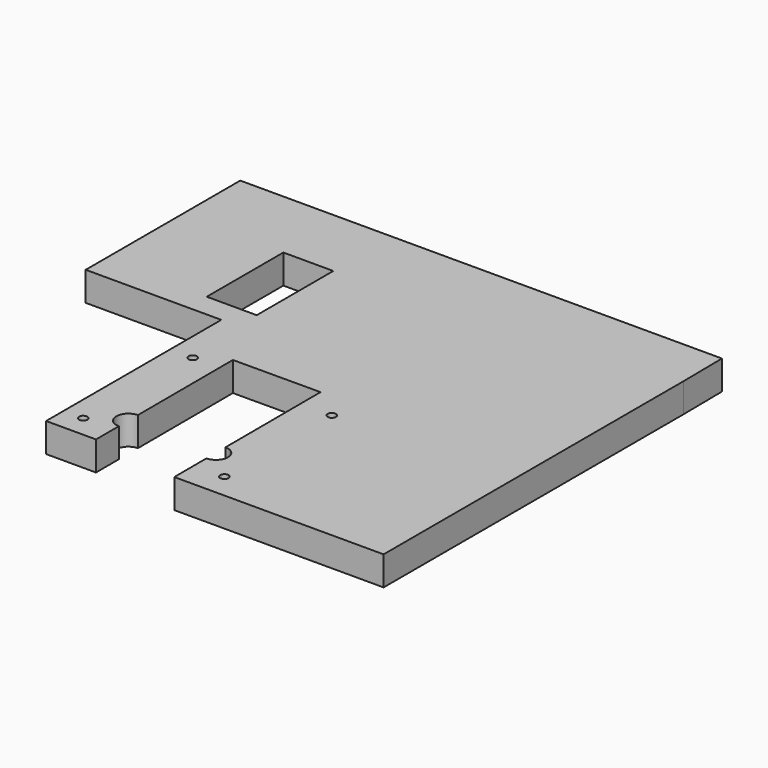
from build123d import *

# Parameters (mm, degrees)
F0_W     = 8
F0_H     = 6
F0_H_2   = 5.6374937892
F0_W_2   = 4
F0_H_3   = 23
F0_W_3   = 38.2781559229
F0_H_4   = 34.3460934982
F1_DEPTH = 7
F2_D     = 2
F3_D     = 5.75


with BuildPart() as f1:
    # F0 (on Top) → F1 (new body)
    with BuildSketch(Plane.XY):
        Polygon((10.5, -45), (22.5, -45), (22.5, -10.6539065018), (22.5, 17.153987661), (0, 45), (-14.5, 45), (-14.5, 39), (-14.5, 16), (-14.5, 10.3625062108), (-22.5, 10.3625062108), (-22.5, -42.25), (-10.5080957781, -42.25), (-10.6281967604, -1.0001864958), (10.3717142302, -0.9390441602), align=None)
        Polygon((0, 45), (22.5, 17.153987661), (22.5, 45), align=None)
        Polygon((-30.5, 39), (-30.5, 45), (-55.0723059862, 45), (-55.0723059862, 10.3625062108), (-30.5, 10.3625062108), (-30.5, 16), align=None)
        with Locations((-26.5, 42)):
            Rectangle(F0_W, F0_H)
        Polygon((-14.5, 39), (-14.5, 45), (-22.5, 45), (-22.5, 39), (-18.5, 39), align=None)
        Polygon((-22.5, 16), (-22.5, 10.3625062108), (-14.5, 10.3625062108), (-14.5, 16), (-18.5, 16), align=None)
        with Locations((-26.5, 13.1812531054)):
            Rectangle(F0_W, F0_H_2)
        Polygon((22.5, 17.153987661), (22.5, -10.6539065018), (60.7781559229, -10.6539065018), (60.7781559229, 45), (22.5, 45), align=None)
        Polygon((0, 45), (22.5, 45), (60.7781559229, 45), (60.6384575367, 56.7700602114), (-55.0723059862, 56.7700602114), (-55.0723059862, 45), (-30.5, 45), (-22.5, 45), (-14.5, 45), align=None)
        with Locations((-16.5, 27.5)):
            Rectangle(F0_W_2, F0_H_3)
        with Locations((41.6390779614, -27.8269532509)):
            Rectangle(F0_W_3, F0_H_4)
    extrude(amount=F1_DEPTH)

    # F2 (through all)
    with Locations(Plane(origin=(0, 0, 0), x_dir=(1, 0, 0), z_dir=(0, 0, -1))):
        with Locations((-17.0669870824, 5), (-17.7734121563, 37), (17.7265878437, 39), (17.9330129176, 7)):
            Hole(F2_D / 2)

    # F3 (through all)
    with Locations(Plane(origin=(0, 0, 0), x_dir=(1, 0, 0), z_dir=(0, 0, -1))):
        with Locations((-10.5364832571, 32.5000529818), (10.4634277335, 32.4389106462)):
            Hole(F3_D / 2)


solid = f1.part
